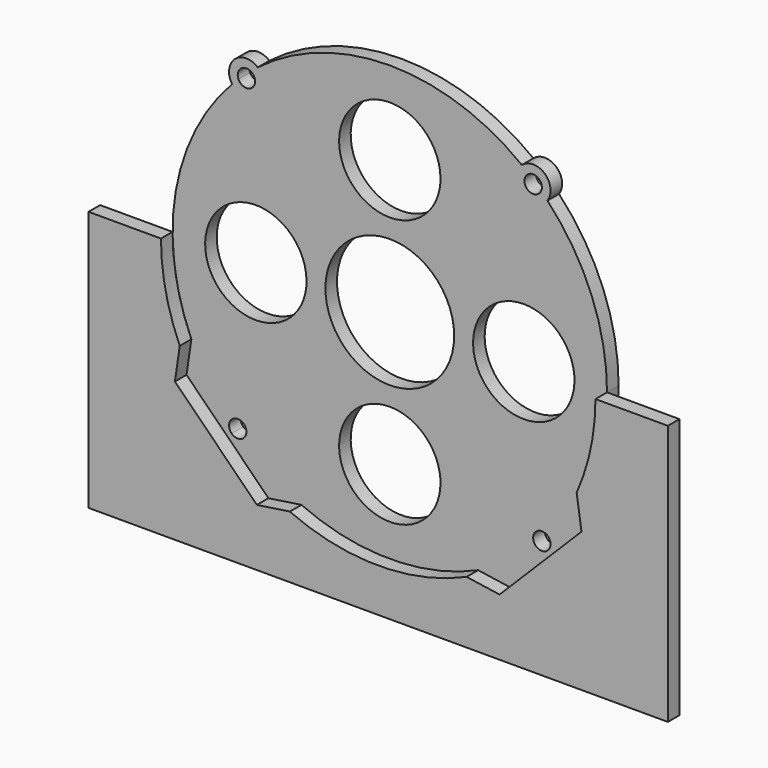
from build123d import *

# Parameters (mm, degrees)
F0_R     = 140
F0_R_2   = 44.45
F1_DEPTH = 10
F3_DEPTH = 10


with BuildPart() as f1:
    # F0 (on Front) → F1 (new body)
    with BuildSketch(Plane.XZ):
        with BuildLine():
            ThreePointArc((137.0233911422, -61.0294214285), (146.7199861493, -31.196885491), (150, 0))
            ThreePointArc((150, 0), (139.3398045954, 55.537544556), (108.8744152626, 103.1812080819))
            ThreePointArc((108.8744152626, 103.1812080819), (106.711251974, 105.4168331062), (104.5021919642, 107.6071181413))
            ThreePointArc((104.5021919642, 107.6071181413), (94.9862116103, 105.5402351225), (96.0427603211, 115.2206066201))
            ThreePointArc((96.0427603211, 115.2206066201), (93.632686031, 117.1875424549), (91.1823401367, 119.1040756951))
            ThreePointArc((91.1823401367, 119.1040756951), (0, 150), (-91.1823401367, 119.1040756951))
            ThreePointArc((-91.1823401367, 119.1040756951), (-93.632686031, 117.1875424549), (-96.0427603211, 115.2206066201))
            ThreePointArc((-96.0427603211, 115.2206066201), (-93.8162061155, 113.0213045135), (-93, 110))
            ThreePointArc((-93, 110), (-97.7779426742, 104.1257701873), (-104.5021919642, 107.6071181413))
            ThreePointArc((-104.5021919642, 107.6071181413), (-106.711251974, 105.4168331062), (-108.8744152626, 103.1812080819))
            ThreePointArc((-108.8744152626, 103.1812080819), (-147.8435507884, 25.3433322649), (-137.0233911422, -61.0294214285))
            ThreePointArc((-137.0233911422, -61.0294214285), (-125.2428617807, -82.548322654), (-110.1122585236, -101.8591700479))
            ThreePointArc((-110.1122585236, -101.8591700479), (-103.3680611441, -99.2261992093), (-99, -105))
            ThreePointArc((-99, -105), (-99.7633512762, -107.9287386609), (-101.8591700479, -110.1122585236))
            ThreePointArc((-101.8591700479, -110.1122585236), (-82.548322654, -125.2428617807), (-61.0294214285, -137.0233911422))
            ThreePointArc((-61.0294214285, -137.0233911422), (0, -150), (61.0294214285, -137.0233911422))
            ThreePointArc((61.0294214285, -137.0233911422), (82.548322654, -125.2428617807), (101.8591700479, -110.1122585236))
            ThreePointArc((101.8591700479, -110.1122585236), (100.7573593129, -100.7573593129), (110.1122585236, -101.8591700479))
            ThreePointArc((110.1122585236, -101.8591700479), (125.2428617807, -82.548322654), (137.0233911422, -61.0294214285))
        make_face()
        Circle(F0_R, mode=Mode.SUBTRACT)
        Circle(F0_R)
        with BuildLine():
            ThreePointArc((-34.3679229384, 85.8783783784), (-3.325860577, 127.3416223994), (35, 92.5))
            ThreePointArc((35, 92.5), (34.8416223994, 89.174139423), (34.3679229384, 85.8783783784))
            ThreePointArc((34.3679229384, 85.8783783784), (65.4073772598, 65.4073772598), (85.8783783784, 34.3679229384))
            ThreePointArc((85.8783783784, 34.3679229384), (114.7850088988, 26.9884860335), (127.5, 0))
            ThreePointArc((127.5, 0), (114.7850088988, -26.9884860335), (85.8783783784, -34.3679229384))
            ThreePointArc((85.8783783784, -34.3679229384), (65.4073772598, -65.4073772598), (34.3679229384, -85.8783783784))
            ThreePointArc((34.3679229384, -85.8783783784), (34.8416223994, -89.174139423), (35, -92.5))
            ThreePointArc((35, -92.5), (-3.325860577, -127.3416223994), (-34.3679229384, -85.8783783784))
            ThreePointArc((-34.3679229384, -85.8783783784), (-65.4073772598, -65.4073772598), (-85.8783783784, -34.3679229384))
            ThreePointArc((-85.8783783784, -34.3679229384), (-127.5, 0), (-85.8783783784, 34.3679229384))
            ThreePointArc((-85.8783783784, 34.3679229384), (-65.4073772598, 65.4073772598), (-34.3679229384, 85.8783783784))
        make_face(mode=Mode.SUBTRACT)
        with BuildLine():
            ThreePointArc((34.3679229384, 85.8783783784), (0, 57.5), (-34.3679229384, 85.8783783784))
            ThreePointArc((-34.3679229384, 85.8783783784), (-65.4073772598, 65.4073772598), (-85.8783783784, 34.3679229384))
            ThreePointArc((-85.8783783784, 34.3679229384), (-65.5115139665, 22.2850088988), (-57.5, 0))
            ThreePointArc((-57.5, 0), (-65.5115139665, -22.2850088988), (-85.8783783784, -34.3679229384))
            ThreePointArc((-85.8783783784, -34.3679229384), (-65.4073772598, -65.4073772598), (-34.3679229384, -85.8783783784))
            ThreePointArc((-34.3679229384, -85.8783783784), (0, -57.5), (34.3679229384, -85.8783783784))
            ThreePointArc((34.3679229384, -85.8783783784), (65.4073772598, -65.4073772598), (85.8783783784, -34.3679229384))
            ThreePointArc((85.8783783784, -34.3679229384), (57.5, 0), (85.8783783784, 34.3679229384))
            ThreePointArc((85.8783783784, 34.3679229384), (65.4073772598, 65.4073772598), (34.3679229384, 85.8783783784))
        make_face()
        Circle(F0_R_2, mode=Mode.SUBTRACT)
        with BuildLine():
            Line((140.3553390593, -83.7867965644), (137.0233911422, -61.0294214285))
            ThreePointArc((137.0233911422, -61.0294214285), (125.2428617807, -82.548322654), (110.1122585236, -101.8591700479))
            ThreePointArc((110.1122585236, -101.8591700479), (110.7738007907, -103.3680611441), (111, -105))
            ThreePointArc((111, -105), (107.9287386609, -110.2366487238), (101.8591700479, -110.1122585236))
            ThreePointArc((101.8591700479, -110.1122585236), (82.548322654, -125.2428617807), (61.0294214285, -137.0233911422))
            Line((61.0294214285, -137.0233911422), (83.7867965644, -140.3553390593))
            Line((83.7867965644, -140.3553390593), (112.0710678119, -112.0710678119))
            Line((112.0710678119, -112.0710678119), (140.3553390593, -83.7867965644))
        make_face()
        with BuildLine():
            Line((-83.7867965644, -140.3553390593), (-61.0294214285, -137.0233911422))
            ThreePointArc((-61.0294214285, -137.0233911422), (-82.548322654, -125.2428617807), (-101.8591700479, -110.1122585236))
            ThreePointArc((-101.8591700479, -110.1122585236), (-105.7018229971, -110.9588123381), (-109.2426406871, -109.2426406871))
            Line((-109.2426406871, -109.2426406871), (-112.0710678119, -112.0710678119))
            Line((-112.0710678119, -112.0710678119), (-83.7867965644, -140.3553390593))
        make_face()
        with BuildLine():
            ThreePointArc((-110.1122585236, -101.8591700479), (-125.2428617807, -82.548322654), (-137.0233911422, -61.0294214285))
            Line((-137.0233911422, -61.0294214285), (-140.3553390593, -83.7867965644))
            Line((-140.3553390593, -83.7867965644), (-112.0710678119, -112.0710678119))
            Line((-112.0710678119, -112.0710678119), (-109.2426406871, -109.2426406871))
            ThreePointArc((-109.2426406871, -109.2426406871), (-110.9588123381, -105.7018229971), (-110.1122585236, -101.8591700479))
        make_face()
        with BuildLine():
            ThreePointArc((104.5021919642, 107.6071181413), (106.711251974, 105.4168331062), (108.8744152626, 103.1812080819))
            ThreePointArc((108.8744152626, 103.1812080819), (107.0275767795, 118.919529755), (91.1823401367, 119.1040756951))
            ThreePointArc((91.1823401367, 119.1040756951), (93.632686031, 117.1875424549), (96.0427603211, 115.2206066201))
            ThreePointArc((96.0427603211, 115.2206066201), (102.0213045135, 115.1837938845), (105, 110))
            ThreePointArc((105, 110), (104.8742298127, 108.7779426742), (104.5021919642, 107.6071181413))
        make_face()
        with BuildLine():
            ThreePointArc((-96.0427603211, 115.2206066201), (-93.632686031, 117.1875424549), (-91.1823401367, 119.1040756951))
            ThreePointArc((-91.1823401367, 119.1040756951), (-107.0275767795, 118.919529755), (-108.8744152626, 103.1812080819))
            ThreePointArc((-108.8744152626, 103.1812080819), (-106.711251974, 105.4168331062), (-104.5021919642, 107.6071181413))
            ThreePointArc((-104.5021919642, 107.6071181413), (-103.0137883897, 114.4597648775), (-96.0427603211, 115.2206066201))
        make_face()
    extrude(amount=-F1_DEPTH)


with BuildPart() as f3:
    # F2 (on face) → F3 (new body)
    with BuildSketch(Plane.XZ):
        with BuildLine():
            Line((200, 0), (150, 0))
            ThreePointArc((150, 0), (146.7199861493, -31.196885491), (137.0233911422, -61.0294214285))
            Line((137.0233911422, -61.0294214285), (140.3553390593, -83.7867965644))
            Line((140.3553390593, -83.7867965644), (83.7867965644, -140.3553390593))
            Line((83.7867965644, -140.3553390593), (61.0294214285, -137.0233911422))
            ThreePointArc((61.0294214285, -137.0233911422), (0, -150), (-61.0294214285, -137.0233911422))
            Line((-61.0294214285, -137.0233911422), (-83.7867965644, -140.3553390593))
            Line((-83.7867965644, -140.3553390593), (-140.3553390593, -83.7867965644))
            Line((-140.3553390593, -83.7867965644), (-137.0233911422, -61.0294214285))
            ThreePointArc((-137.0233911422, -61.0294214285), (-146.7199861493, -31.196885491), (-150, 0))
            Line((-150, 0), (-200, 0))
            Line((-200, 0), (-200, -180))
            Line((-200, -180), (200, -180))
            Line((200, -180), (200, 0))
        make_face()
    extrude(amount=F3_DEPTH)


solid = Compound([f1.part, f3.part])
